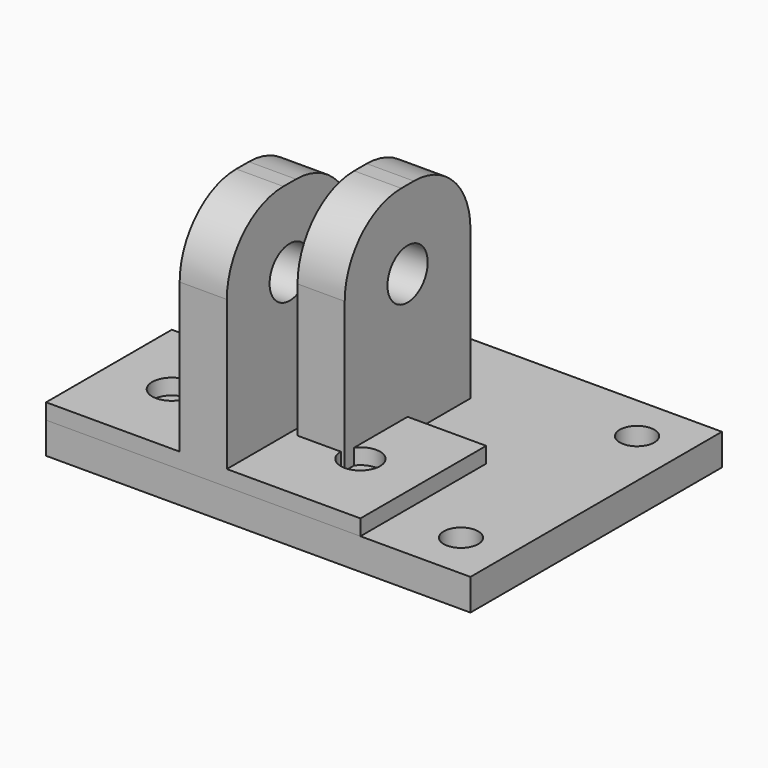
from build123d import *

# Parameters (mm, degrees)
SKETCH_W        = 20
SKETCH_H        = 10
PAD_DEPTH       = 3
SKETCH001_W     = 3
SKETCH001_H     = 10
PAD001_DEPTH    = 14
SKETCH002_R     = 1.25
POCKET_DEPTH    = 3
SKETCH003_R     = 1.6
POCKET001_DEPTH = 3
FILLET_R        = 4.5
FILLET001_R     = 4.5
SKETCH004_W     = 27
SKETCH004_H     = 20
PAD002_DEPTH    = 2
SKETCH005_W     = 3
SKETCH005_H     = 10
PAD003_DEPTH    = 14
SKETCH007_R     = 1.1
POCKET002_DEPTH = 3
SKETCH006_R     = 1.6
POCKET003_DEPTH = 3
POCKET004_DEPTH = 3
FILLET002_R     = 4.5


with BuildPart() as body:
    # Sketch → Pad (new body)
    with BuildSketch(Plane.XY):
        with Locations((10, 5)):
            Rectangle(SKETCH_W, SKETCH_H)
    extrude(amount=PAD_DEPTH)

    # Sketch001 (on Face6 of Pad) → Pad001 (join)
    with BuildSketch(Plane.XY.offset(3)):
        with Locations((10, 5)):
            Rectangle(SKETCH001_W, SKETCH001_H)
    extrude(amount=PAD001_DEPTH)

    # Sketch002 (on Face5 of Pad001) → Pocket (cut)
    with BuildSketch(Plane.XY.offset(3)):
        with Locations((4, 5)):
            Circle(SKETCH002_R)
        with Locations((16, 5)):
            Circle(SKETCH002_R)
    extrude(amount=-POCKET_DEPTH, mode=Mode.SUBTRACT)

    # Sketch003 (on Face10 of Pad001) → Pocket001 (cut)
    with BuildSketch(Plane.YZ.offset(11.5)):
        with Locations((5, 12)):
            Circle(SKETCH003_R)
    extrude(amount=-POCKET001_DEPTH, mode=Mode.SUBTRACT)

    # Fillet
    fillet_edges = [body.edges().sort_by_distance(p)[0] for p in [
        (10, 10, 17),
    ]]
    fillet(fillet_edges, radius=FILLET_R)

    # Fillet001
    fillet001_edges = [body.edges().sort_by_distance(p)[0] for p in [
        (10, 0, 17),
    ]]
    fillet(fillet001_edges, radius=FILLET001_R)


with BuildPart() as body2:
    # Sketch004 → Pad002 (new body)
    with BuildSketch(Plane.XY):
        with Locations((13.5, 10)):
            Rectangle(SKETCH004_W, SKETCH004_H)
    extrude(amount=PAD002_DEPTH)

    # Sketch005 (on Face6 of Pad002) → Pad003 (join)
    with BuildSketch(Plane.XY.offset(2)):
        with Locations((13.5, 10)):
            Rectangle(SKETCH005_W, SKETCH005_H)
    extrude(amount=PAD003_DEPTH)

    # Sketch007 (on Face5 of Pad003) → Pocket002 (cut)
    with BuildSketch(Plane.XY.offset(2)):
        with Locations((3, 17)):
            Circle(SKETCH007_R)
        with Locations((24, 17)):
            Circle(SKETCH007_R)
        with Locations((3, 3)):
            Circle(SKETCH007_R)
        with Locations((24, 3)):
            Circle(SKETCH007_R)
    extrude(amount=-POCKET002_DEPTH, mode=Mode.SUBTRACT)

    # Sketch006 (on Face10 of Pad003) → Pocket003 (cut)
    with BuildSketch(Plane(origin=(12, 0, 0), x_dir=(0, -1, 0), z_dir=(-1, 0, 0))):
        with Locations((-10, 11)):
            Circle(SKETCH006_R)
    extrude(amount=-POCKET003_DEPTH, mode=Mode.SUBTRACT)

    # Sketch007 (on Face5 of Pad003) → Pocket004 (cut)
    with BuildSketch(Plane.XY.offset(2)):
        with Locations((3, 17)):
            Circle(SKETCH007_R)
        with Locations((24, 17)):
            Circle(SKETCH007_R)
        with Locations((3, 3)):
            Circle(SKETCH007_R)
        with Locations((24, 3)):
            Circle(SKETCH007_R)
    extrude(amount=-POCKET004_DEPTH, mode=Mode.SUBTRACT)

    # Fillet002
    fillet002_edges = [body2.edges().sort_by_distance(p)[0] for p in [
        (13.5, 15, 16),
        (13.5, 5, 16),
    ]]
    fillet(fillet002_edges, radius=FILLET002_R)


solid = Compound([body.part, body2.part])
